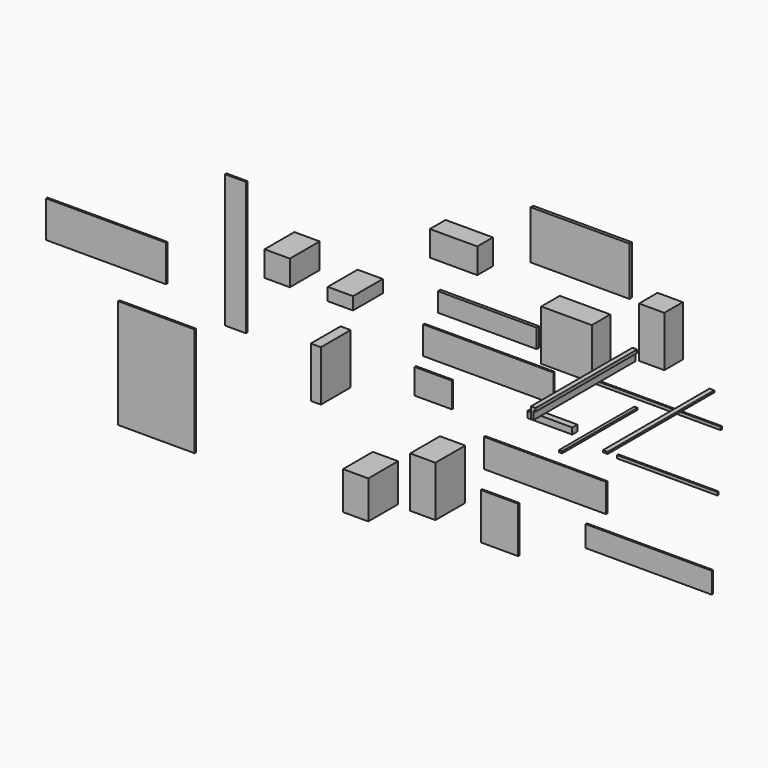
from build123d import *

# Parameters (mm, degrees)
F0_W      = 710
F0_H      = 100
F1_DEPTH  = 100
F2_W      = 2000
F2_H      = 334
F3_DEPTH  = 27
F4_W      = 1565
F4_H      = 770
F4_H_2    = 300
F5_DEPTH  = 50
F7_DEPTH  = 2010
F8_W      = 2110
F8_H      = 48
F9_DEPTH  = 24
F10_W     = 1589
F10_H     = 48
F11_DEPTH = 24
F12_W     = 1899
F12_H     = 580
F12_W_2   = 334
F12_H_2   = 2110
F12_W_3   = 1210.284843
F12_H_3   = 1726.143237
F13_DEPTH = 28
F14_W     = 800
F14_H     = 800
F15_DEPTH = 366
F16_W     = 400
F16_H     = 800
F17_DEPTH = 366
F18_W     = 750
F18_H     = 400
F19_DEPTH = 310
F20_W     = 75
F20_H     = 30
F21_DEPTH = 2110
F22_W     = 400
F22_H     = 200
F22_H_2   = 400
F23_DEPTH = 590
F24_W     = 400
F24_H     = 600
F25_DEPTH = 590
F26_W     = 590
F26_H     = 400
F27_DEPTH = 28
F28_W     = 160
F28_H     = 800
F29_DEPTH = 590
F30_W     = 400
F30_H     = 800
F31_DEPTH = 590
F32_W     = 2060
F32_H     = 441
F32_W_2   = 1931
F32_H_2   = 450
F32_W_3   = 590
F32_H_3   = 731
F33_DEPTH = 27
F34_W     = 50
F34_H     = 30
F35_DEPTH = 1490


with BuildPart() as f1:
    # F0 (on Front) → F1 (new body)
    with BuildSketch(Plane.XZ):
        with Locations((284.664744, 365.880244)):
            Rectangle(F0_W, F0_H)
    extrude(amount=F1_DEPTH)


with BuildPart() as f3:
    # F2 (on Front) → F3 (new body)
    with BuildSketch(Plane.XZ):
        with Locations((1792.124271, -1078.362907)):
            Rectangle(F2_W, F2_H)
    extrude(amount=F3_DEPTH)


with BuildPart() as f5:
    # F4 (on Front) → F5 (new body)
    with BuildSketch(Plane.XZ):
        with Locations((724.849694, 2853.207262)):
            Rectangle(F4_W, F4_H)
        with Locations((-745.849795, 1440.107686)):
            Rectangle(F4_W, F4_H_2)
    extrude(amount=F5_DEPTH)


with BuildPart() as f7:
    # F6 (on Front) → F7 (new body)
    with BuildSketch(Plane.XZ):
        Polygon((1513.458872, 1595.77716), (1558.458872, 1595.77716), (1558.458872, 1720.77716), (1588.458872, 1720.77716), (1588.458872, 1770.77716), (1513.458872, 1770.77716), align=None)
    extrude(amount=F7_DEPTH)


with BuildPart() as f9:
    # F8 (on Front) → F9 (new body)
    with BuildSketch(Plane.XZ):
        with Locations((1874.693036, 1114.932496)):
            Rectangle(F8_W, F8_H)
    extrude(amount=F9_DEPTH)


with BuildPart() as f11:
    # F10 (on Front) → F11 (new body)
    with BuildSketch(Plane.XZ):
        with Locations((2082.493305, 187.526129)):
            Rectangle(F10_W, F10_H)
    extrude(amount=F11_DEPTH)


with BuildPart() as f13:
    # F12 (on Front) → F13 (new body)
    with BuildSketch(Plane.XZ):
        with Locations((-6798.378944, 561.394877)):
            Rectangle(F12_W, F12_H)
        with Locations((-4752.052484, 1055)):
            Rectangle(F12_W_2, F12_H_2)
        with Locations((-6000.372431, -1073.276282)):
            Rectangle(F12_W_3, F12_H_3)
    extrude(amount=F13_DEPTH)


with BuildPart() as f15:
    # F14 (on Front) → F15 (new body)
    with BuildSketch(Plane.XZ):
        with Locations((762.103327, 1719.746114)):
            Rectangle(F14_W, F14_H)
    extrude(amount=F15_DEPTH)


with BuildPart() as f17:
    # F16 (on Front) → F17 (new body)
    with BuildSketch(Plane.XZ):
        with Locations((2109.963225, 2264.778495)):
            Rectangle(F16_W, F16_H)
    extrude(amount=F17_DEPTH)


with BuildPart() as f19:
    # F18 (on Front) → F19 (new body)
    with BuildSketch(Plane.XZ):
        with Locations((-1070.879757, 2389.413956)):
            Rectangle(F18_W, F18_H)
    extrude(amount=F19_DEPTH)


with BuildPart() as f21:
    # F20 (on Front) → F21 (new body)
    with BuildSketch(Plane.XZ):
        with Locations((2771.255136, 1582.972825)):
            Rectangle(F20_W, F20_H)
    extrude(amount=F21_DEPTH)


with BuildPart() as f23:
    # F22 (on Front) → F23 (new body)
    with BuildSketch(Plane.XZ):
        with Locations((-2638.930207, 1343.371749)):
            Rectangle(F22_W, F22_H)
        with Locations((-3638.775873, 1442.092967)):
            Rectangle(F22_W, F22_H_2)
    extrude(amount=F23_DEPTH)


with BuildPart() as f25:
    # F24 (on Front) → F25 (new body)
    with BuildSketch(Plane.XZ):
        with Locations((-2396.908727, -1317.645407)):
            Rectangle(F24_W, F24_H)
    extrude(amount=F25_DEPTH)


with BuildPart() as f27:
    # F26 (on Front) → F27 (new body)
    with BuildSketch(Plane.XZ):
        with Locations((-1619.585202, 200)):
            Rectangle(F26_W, F26_H)
    extrude(amount=F27_DEPTH)


with BuildPart() as f29:
    # F28 (on Front) → F29 (new body)
    with BuildSketch(Plane.XZ):
        with Locations((-3027.869124, 166.185106)):
            Rectangle(F28_W, F28_H)
    extrude(amount=F29_DEPTH)


with BuildPart() as f31:
    # F30 (on Front) → F31 (new body)
    with BuildSketch(Plane.XZ):
        with Locations((-1334.106386, -853.806677)):
            Rectangle(F30_W, F30_H)
    extrude(amount=F31_DEPTH)


with BuildPart() as f33:
    # F32 (on Front) → F33 (new body)
    with BuildSketch(Plane.XZ):
        with Locations((-748.460316, 815.234985)):
            Rectangle(F32_W, F32_H)
        with Locations((150.395396, -442.6007)):
            Rectangle(F32_W_2, F32_H_2)
        with Locations((-571.072953, -1340.318295)):
            Rectangle(F32_W_3, F32_H_3)
    extrude(amount=F33_DEPTH)


with BuildPart() as f35:
    # F34 (on Front) → F35 (new body)
    with BuildSketch(Plane.XZ):
        with Locations((1566.456125, 943.608493)):
            Rectangle(F34_W, F34_H)
    extrude(amount=F35_DEPTH)


solid = Compound([f1.part, f3.part, f5.part, f7.part, f9.part, f11.part, f13.part, f15.part, f17.part, f19.part, f21.part, f23.part, f25.part, f27.part, f29.part, f31.part, f33.part, f35.part])
